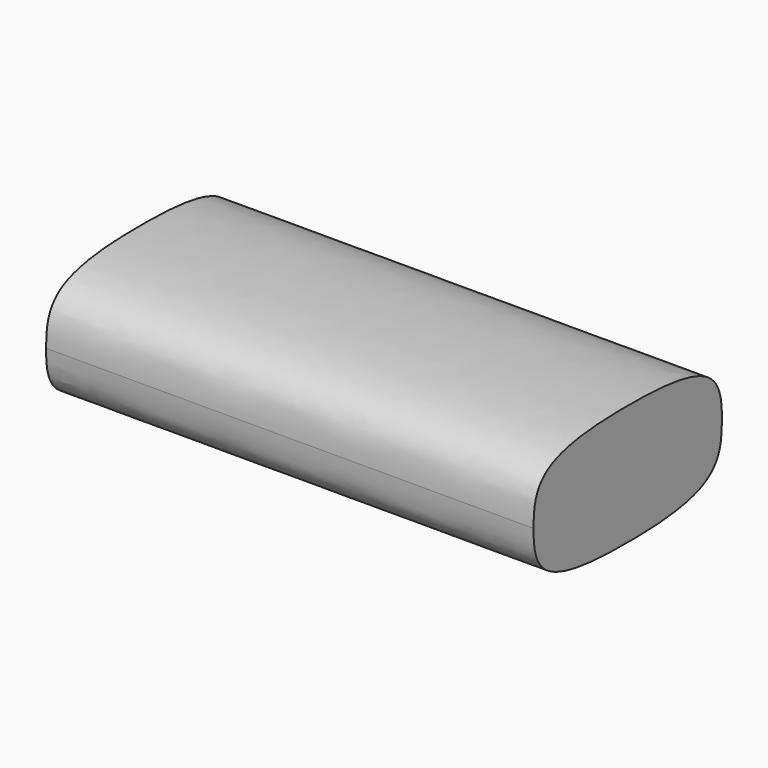
from build123d import *

# Parameters (mm, degrees)
F0_W     = 89
F0_H     = 43
F1_DEPTH = 22
F3_DEPTH = 89.001


with BuildPart() as f1:
    # F0 (on Top) → F1 (new body)
    with BuildSketch(Plane.XY):
        with Locations((44.5, 21.5)):
            Rectangle(F0_W, F0_H)
    extrude(amount=F1_DEPTH)

    # F2 (on face) → F3 (intersect, through all)
    with BuildSketch(Plane.YZ.offset(89)):
        with BuildLine():
            add(Edge.make_bspline(
                [(0, 11), (0, 13.5623035421), (0.6588313754, 19.3252201157), (8.2747716079, 22), (21.5, 22)],
                knots=[0, 0, 0, 0, 0.3581952005, 1, 1, 1, 1], degree=3))
            add(Edge.make_bspline(
                [(0, 11), (0, 8.4376964579), (0.6588313754, 2.6747798843), (8.2747716079, 0), (21.5, 0)],
                knots=[0, 0, 0, 0, 0.3581952005, 1, 1, 1, 1], degree=3))
            add(Edge.make_bspline(
                [(43, 11), (43, 8.4376964579), (42.3411686246, 2.6747798843), (34.7252283921, 0), (21.5, 0)],
                knots=[0, 0, 0, 0, 0.3581952005, 1, 1, 1, 1], degree=3))
            add(Edge.make_bspline(
                [(43, 11), (43, 13.5623035421), (42.3411686246, 19.3252201157), (34.7252283921, 22), (21.5, 22)],
                knots=[0, 0, 0, 0, 0.3581952005, 1, 1, 1, 1], degree=3))
        make_face()
    extrude(amount=-F3_DEPTH, mode=Mode.INTERSECT)


solid = f1.part
